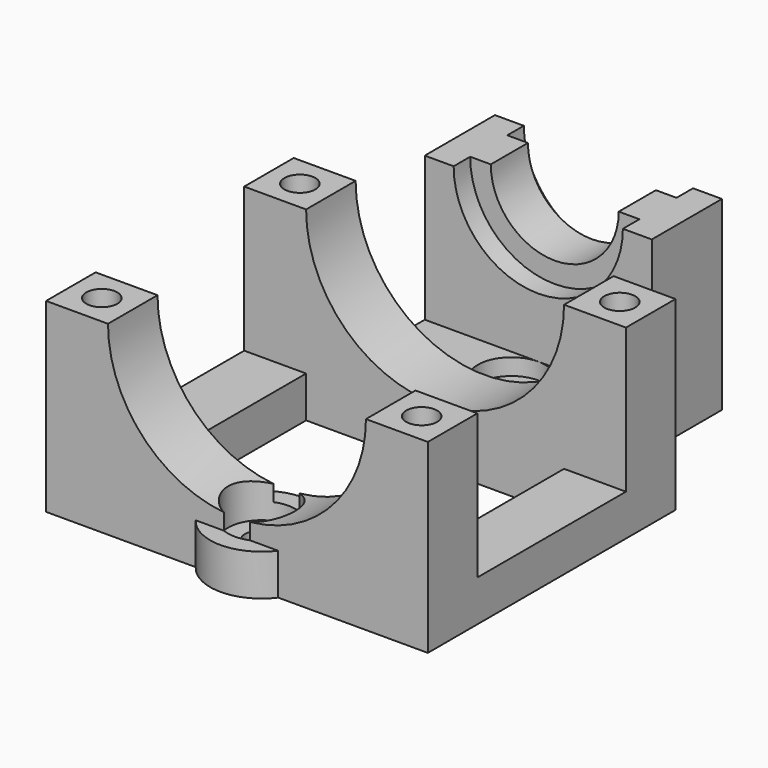
from build123d import *

# Parameters (mm, degrees)
F1_DEPTH  = 4
F2_W      = 22
F2_H      = 8.5
F2_W_2    = 37
F2_H_2    = 6
F3_DEPTH  = 14
F4_R      = 6.2
F5_DEPTH  = 8.5
F6_R      = 12.5
F7_DEPTH  = 32.001
F8_R      = 8.2
F9_DEPTH  = 2
F10_R     = 8.2
F11_DEPTH = 2
F12_R     = 1.5
F13_DEPTH = 18.001
F14_R     = 1.6
F15_DEPTH = 4
F16_R     = 1.6
F17_DEPTH = 18.001
F18_R     = 3.25
F19_DEPTH = 1.6
F20_R     = 3.25
F21_DEPTH = 15.6


with BuildPart() as f1:
    # F0 (on Top) → F1 (new body)
    with BuildSketch(Plane.XY):
        with BuildLine():
            Line((4, 0), (18.5, 0))
            Line((18.5, 0), (18.5, 30))
            Line((18.5, 30), (11, 30))
            Line((11, 30), (11, 45))
            Line((11, 45), (-11, 45))
            Line((-11, 45), (-11, 30))
            Line((-11, 30), (-18.5, 30))
            Line((-18.5, 30), (-18.5, 0))
            Line((-18.5, 0), (-4, 0))
            ThreePointArc((-4, 0), (0, -2), (4, 0))
        make_face()
        with BuildLine():
            Line((-12.5, 6), (-12.5, 24))
            Line((-12.5, 24), (12.5, 24))
            Line((12.5, 24), (12.5, 6))
            Line((12.5, 6), (4, 6))
            ThreePointArc((4, 6), (0, 8), (-4, 6))
            Line((-4, 6), (-12.5, 6))
        make_face(mode=Mode.SUBTRACT)
    extrude(amount=F1_DEPTH)

    # F2 (on face) → F3 (join)
    with BuildSketch(Plane.XY.offset(4)):
        with Locations((0, 40.75)):
            Rectangle(F2_W, F2_H)
        with Locations((0, 27)):
            Rectangle(F2_W_2, F2_H_2)
        with Locations((0, 3)):
            Rectangle(F2_W_2, F2_H_2)
    extrude(amount=F3_DEPTH)

    # F4 (on face) → F5 (cut, through all)
    with BuildSketch(Plane(origin=(0, 45, 0), x_dir=(-1, 0, 0), z_dir=(0, 1, 0))):
        with Locations((0, 18)):
            Circle(F4_R)
    extrude(amount=-F5_DEPTH, mode=Mode.SUBTRACT)

    # F6 (on face) → F7 (cut, through all)
    with BuildSketch(Plane(origin=(0, 30, 0), x_dir=(-1, 0, 0), z_dir=(0, 1, 0))):
        with Locations((0, 18)):
            Circle(F6_R)
    extrude(amount=-F7_DEPTH, mode=Mode.SUBTRACT)

    # F8 (on face) → F9 (cut)
    with BuildSketch(Plane(origin=(0, 45, 0), x_dir=(-1, 0, 0), z_dir=(0, 1, 0))):
        with Locations((0, 18)):
            Circle(F8_R)
    extrude(amount=-F9_DEPTH, mode=Mode.SUBTRACT)

    # F10 (on face) → F11 (cut)
    with BuildSketch(Plane.XZ.offset(-36.5)):
        with Locations((0, 18)):
            Circle(F10_R)
    extrude(amount=-F11_DEPTH, mode=Mode.SUBTRACT)

    # F12 (on face) → F13 (cut, through all)
    with BuildSketch(Plane(origin=(0, 0, 0), x_dir=(1, 0, 0), z_dir=(0, 0, -1))):
        with Locations((-15.5, -27)):
            Circle(F12_R)
        with Locations((15.5, -27)):
            Circle(F12_R)
        with Locations((15.5, -3)):
            Circle(F12_R)
        with Locations((-15.5, -3)):
            Circle(F12_R)
    extrude(amount=-F13_DEPTH, mode=Mode.SUBTRACT)

    # F14 (on face) → F15 (cut, through all)
    with BuildSketch(Plane.XY.offset(4)):
        with Locations((0, 33.25)):
            Circle(F14_R)
    extrude(amount=-F15_DEPTH, mode=Mode.SUBTRACT)

    # F16 (on face) → F17 (cut, through all)
    with BuildSketch(Plane(origin=(0, 0, 0), x_dir=(1, 0, 0), z_dir=(0, 0, -1))):
        with Locations((0, -3)):
            Circle(F16_R)
    extrude(amount=-F17_DEPTH, mode=Mode.SUBTRACT)

    # F18 (on face) → F19 (cut)
    with BuildSketch(Plane.XY.offset(4)):
        with Locations((0, 3)):
            Circle(F18_R)
        with Locations((0, 33.25)):
            Circle(F18_R)
    extrude(amount=-F19_DEPTH, mode=Mode.SUBTRACT)

    # F20 (on face) → F21 (cut, through all)
    with BuildSketch(Plane.XY.offset(2.4)):
        with Locations((0, 3)):
            Circle(F20_R)
    extrude(amount=F21_DEPTH, mode=Mode.SUBTRACT)


solid = f1.part
